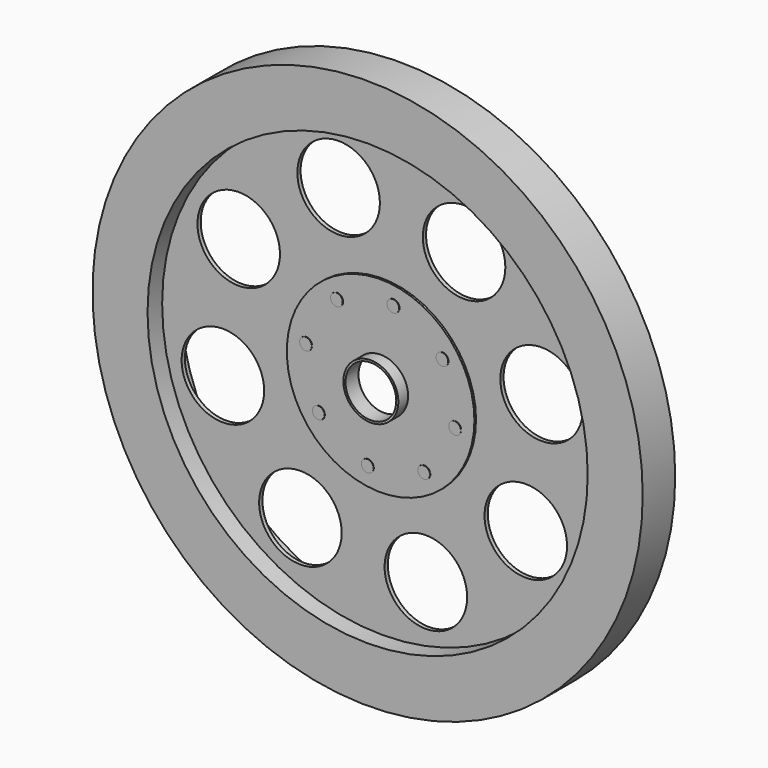
from build123d import *

# Parameters (mm, degrees)
F0_R     = 1.719921
F1_DEPTH = 1.016
F0_R_2   = 5.863536
F0_R_3   = 0.379653
F2_DEPTH = 0.254
F3_DEPTH = 0.2794
F0_R_4   = 17.199212
F0_R_5   = 13.759369
F4_DEPTH = 1.27
F0_R_6   = 2.579882
F5_DEPTH = 0.127
F6_R     = 1.5875
F7_DEPTH = 25.4


with BuildPart() as f1:
    # F0 (on Front) → F1 (new body)
    with BuildSketch(Plane.XZ):
        with Locations((-22.672723, 24.880516)):
            Circle(F0_R)
    extrude(amount=F1_DEPTH)

    # F0 (on Front) → F2 (join)
    with BuildSketch(Plane.XZ):
        with Locations((-22.672723, 24.880516)):
            Circle(F0_R_2)
        with Locations((-23.476102, 20.220184)):
            Circle(F0_R_3, mode=Mode.SUBTRACT)
        with Locations((-26.53615, 22.153239)):
            Circle(F0_R_3, mode=Mode.SUBTRACT)
        with Locations((-19.945446, 21.017089)):
            Circle(F0_R_3, mode=Mode.SUBTRACT)
        with Locations((-18.012391, 24.077137)):
            Circle(F0_R_3, mode=Mode.SUBTRACT)
        with Locations((-27.333055, 25.683896)):
            Circle(F0_R_3, mode=Mode.SUBTRACT)
        with Locations((-25.4, 28.743944)):
            Circle(F0_R_3, mode=Mode.SUBTRACT)
        with Locations((-22.672723, 24.880516)):
            Circle(F0_R, mode=Mode.SUBTRACT)
        with Locations((-18.809295, 27.607794)):
            Circle(F0_R_3, mode=Mode.SUBTRACT)
        with Locations((-21.869343, 29.540849)):
            Circle(F0_R_3, mode=Mode.SUBTRACT)
    extrude(amount=F2_DEPTH)

    # F0 (on Front) → F3 (join)
    with BuildSketch(Plane.XZ):
        with Locations((-23.476102, 20.220184)):
            Circle(F0_R_3)
        with Locations((-19.945446, 21.017089)):
            Circle(F0_R_3)
        with Locations((-18.012391, 24.077137)):
            Circle(F0_R_3)
        with Locations((-18.809295, 27.607794)):
            Circle(F0_R_3)
        with Locations((-21.869343, 29.540849)):
            Circle(F0_R_3)
        with Locations((-25.4, 28.743944)):
            Circle(F0_R_3)
        with Locations((-27.333055, 25.683896)):
            Circle(F0_R_3)
        with Locations((-26.53615, 22.153239)):
            Circle(F0_R_3)
    extrude(amount=F3_DEPTH)



with BuildPart() as f4:
    # F0 (on Front) → F4 (new body, symmetric)
    with BuildSketch(Plane.XZ):
        with Locations((-22.672723, 24.880516)):
            Circle(F0_R_4)
        with Locations((-22.672723, 24.880516)):
            Circle(F0_R_5, mode=Mode.SUBTRACT)
    extrude(amount=F4_DEPTH, both=True)


with BuildPart() as f1_1:
    add(f1.part)

    add(f4.part)  # F5 merges F4
    # F0 (on Front) → F5 (join, symmetric)
    with BuildSketch(Plane.XZ):
        with Locations((-22.672723, 24.880516)):
            Circle(F0_R_5)
        with Locations((-27.788418, 15.907869)):
            Circle(F0_R_6, mode=Mode.SUBTRACT)
        with Locations((-32.634685, 22.153239)):
            Circle(F0_R_6, mode=Mode.SUBTRACT)
        with Locations((-19.945446, 14.918554)):
            Circle(F0_R_6, mode=Mode.SUBTRACT)
        with Locations((-13.700075, 19.764821)):
            Circle(F0_R_6, mode=Mode.SUBTRACT)
        with Locations((-31.64537, 29.996211)):
            Circle(F0_R_6, mode=Mode.SUBTRACT)
        with Locations((-25.4, 34.842479)):
            Circle(F0_R_6, mode=Mode.SUBTRACT)
        with Locations((-22.672723, 24.880516)):
            Circle(F0_R_2, mode=Mode.SUBTRACT)
        with Locations((-12.71076, 27.607794)):
            Circle(F0_R_6, mode=Mode.SUBTRACT)
        with Locations((-17.557028, 33.853164)):
            Circle(F0_R_6, mode=Mode.SUBTRACT)
    extrude(amount=F5_DEPTH, both=True)

    # F6 (on face) → F7 (cut)
    with BuildSketch(Plane.XZ.offset(1.016)):
        with Locations((-22.672723, 24.880516)):
            Circle(F6_R)
    extrude(amount=-F7_DEPTH, mode=Mode.SUBTRACT)


solid = f1_1.part
